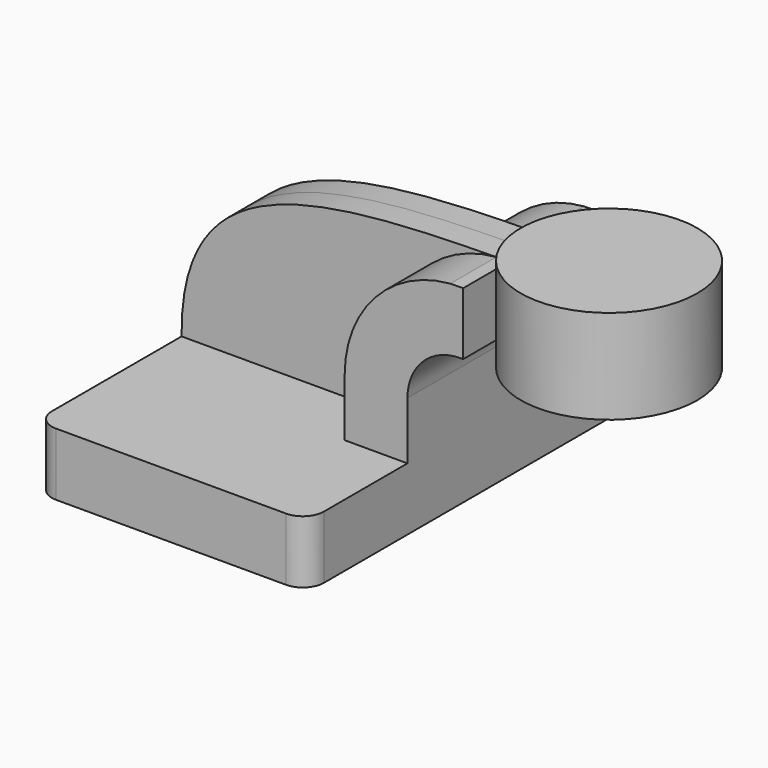
from build123d import *

# Parameters (mm, degrees)
F1_DEPTH = 63.5
F2_DEPTH = 25.4
F3_DEPTH = 7.9375
F5_R     = 6.35


with BuildPart() as f1:
    # F0 (on Front) → F1 (new body, symmetric)
    with BuildSketch(Plane.XZ):
        Polygon((-41.275, -9.525), (41.275, -9.525), (41.275, 9.525), (22.225, 9.525), (-41.275, 9.525), align=None)
    extrude(amount=F1_DEPTH, both=True)

    # F0 (on Front) → F2 (join, symmetric)
    with BuildSketch(Plane.XZ):
        with BuildLine():
            Line((22.225, 9.525), (41.275, 9.525))
            Line((41.275, 9.525), (41.275, 27.0002))
            ThreePointArc((41.275, 27.0002), (45.92468, 38.22552), (57.15, 42.8752))
            Line((57.15, 42.8752), (58.186395, 42.8752))
            Line((58.186395, 42.8752), (58.186395, 61.846107))
            add(Edge.make_bspline(
                [(54.311995, 61.809701), (55.594718, 61.823662), (56.886272, 61.835647), (58.186395, 61.846107)],
                knots=[110.184899, 110.184899, 110.184899, 110.184899, 112.679002, 112.679002, 112.679002, 112.679002], degree=3))
            ThreePointArc((54.311995, 61.809701), (31.470505, 50.671261), (22.225, 27.0002))
            Line((22.225, 27.0002), (22.225, 9.525))
        make_face()
    extrude(amount=F2_DEPTH, both=True)

    # F0 (on Front) → F3 (join, symmetric)
    with BuildSketch(Plane.XZ):
        with BuildLine():
            add(Edge.make_bspline(
                [(-41.275, 9.525), (-41.788435, 56.718878), (-2.356346, 61.192912), (54.311995, 61.809701)],
                knots=[0, 0, 0, 0, 110.184899, 110.184899, 110.184899, 110.184899], degree=3))
            Line((-41.275, 9.525), (22.225, 9.525))
            Line((22.225, 9.525), (22.225, 27.0002))
            ThreePointArc((22.225, 27.0002), (31.470505, 50.671261), (54.311995, 61.809701))
        make_face()
    extrude(amount=F3_DEPTH, both=True)

    # F0 (on Front) → F4 (revolve)
    with BuildSketch(Plane.XZ):
        Polygon((82.170509, 61.855137), (82.170509, 42.8752), (82.170509, 38.1), (108.986395, 38.1), (108.986395, 66.675), (82.170509, 66.675), align=None)
    revolve(axis=Axis((82.170509, 0, 51.389013), (0, 0, -1)))

    # F5
    f5_edges = [f1.edges().sort_by_distance(p)[0] for p in [
        (41.275, -63.5, 0),
        (-41.275, -63.5, 0),
        (41.275, 63.5, 0),
        (-41.275, 63.5, 0),
    ]]
    fillet(f5_edges, radius=F5_R)


solid = f1.part
